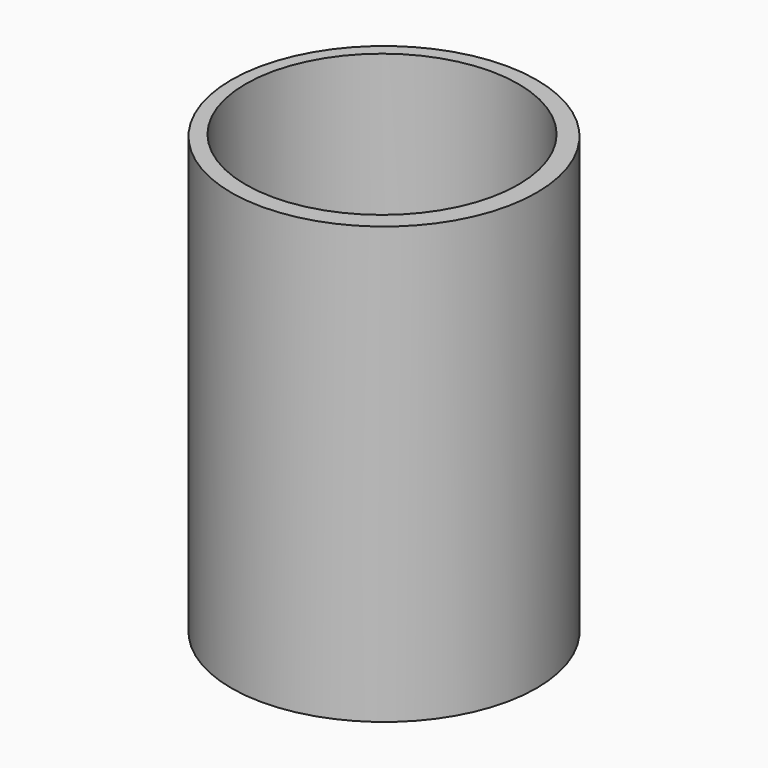
from build123d import *

# Parameters (mm, degrees)
F0_R     = 106.714711
F1_DEPTH = 152.4
F2_R     = 95.28222
F3_DEPTH = 304.8


with BuildPart() as f1:
    # F0 (on Top) → F1 (new body, symmetric)
    with BuildSketch(Plane.XY):
        with Locations((2.314756, -1.181558)):
            Circle(F0_R)
    extrude(amount=F1_DEPTH, both=True)

    # F2 (on Top) → F3 (cut, symmetric)
    with BuildSketch(Plane.XY):
        Circle(F2_R)
    extrude(amount=F3_DEPTH, both=True, mode=Mode.SUBTRACT)


solid = f1.part
